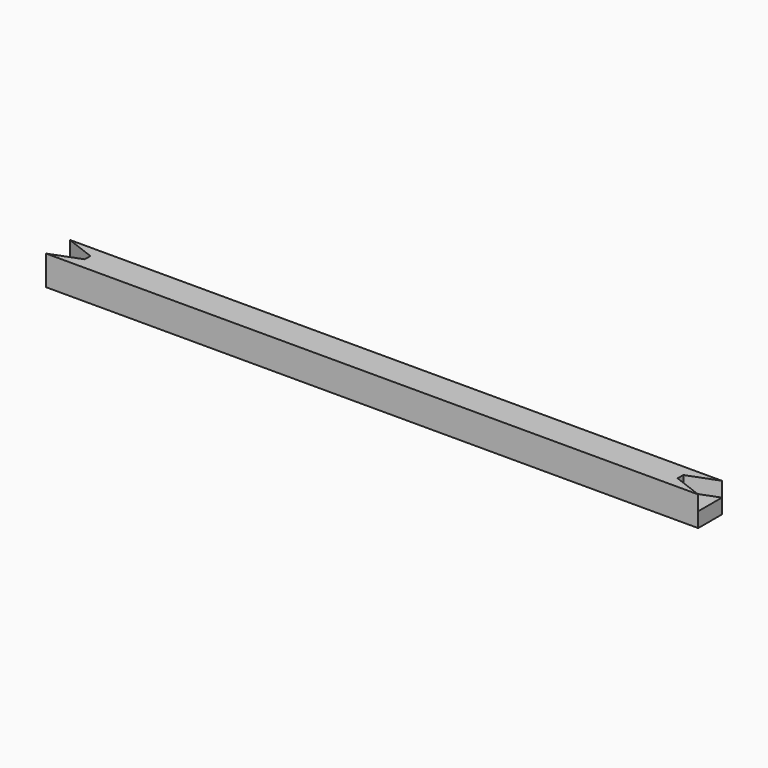
from build123d import *

# Parameters (mm, degrees)
SKETCH_W     = 110
SKETCH_H     = 5
PAD_DEPTH    = 2.5
PAD001_DEPTH = 2.5


with BuildPart() as part:
    # Sketch → Pad (new body)
    with BuildSketch(Plane.XY):
        Rectangle(SKETCH_W, SKETCH_H)
    extrude(amount=PAD_DEPTH)

    # Sketch001 → Pad001 (new body)
    with BuildSketch(Plane.XY.offset(2.5)):
        Polygon((-55, 2.5), (55, 2.5), (50, 0.6), (50, -0.6), (55, -2.5), (-55, -2.5), (-50, -0.6), (-50, 0.6), align=None)
    extrude(amount=PAD001_DEPTH)


solid = part.part
